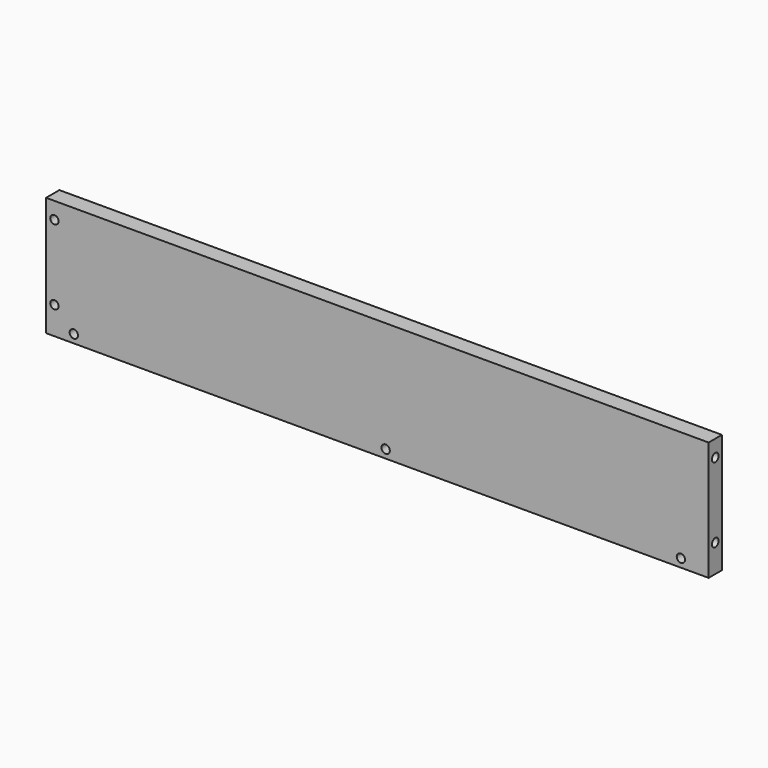
from build123d import *

# Parameters (mm, degrees)
F0_W           = 239
F0_H           = 6
F1_DEPTH       = 43
F3_D           = 3
F3_CSINK_D     = 4.5
F3_CSINK_ANGLE = 90
F5_D           = 3
F5_DEPTH       = 12
F5_TIP         = 0.9012909285
F7_D           = 3
F7_CSINK_D     = 4.5
F7_CSINK_ANGLE = 90


with BuildPart() as f1:
    # F0 (on Top) → F1 (new body)
    with BuildSketch(Plane.XY):
        with Locations((119.5, 3)):
            Rectangle(F0_W, F0_H)
    extrude(amount=F1_DEPTH)

    # F3 (through all)
    with Locations(Plane(origin=(0, 6, 0), x_dir=(-1, 0, 0), z_dir=(0, 1, 0))):
        with Locations((-229, 3), (-122.5, 3), (-10, 3)):
            CounterSinkHole(F3_D / 2, F3_CSINK_D / 2, counter_sink_angle=F3_CSINK_ANGLE)

    # F5
    with Locations(Plane.YZ.offset(239)):
        with Locations((3, 37), (3, 10)):
            Hole(F5_D / 2, depth=F5_DEPTH)
            with Locations((0, 0, -(F5_DEPTH + F5_TIP / 2))):  # 118° drill point
                Cone(0, F5_D / 2, F5_TIP, mode=Mode.SUBTRACT)

    # F7 (through all)
    with Locations(Plane(origin=(0, 6, 0), x_dir=(-1, 0, 0), z_dir=(0, 1, 0))):
        with Locations((-3, 37), (-3, 10)):
            CounterSinkHole(F7_D / 2, F7_CSINK_D / 2, counter_sink_angle=F7_CSINK_ANGLE)


solid = f1.part
